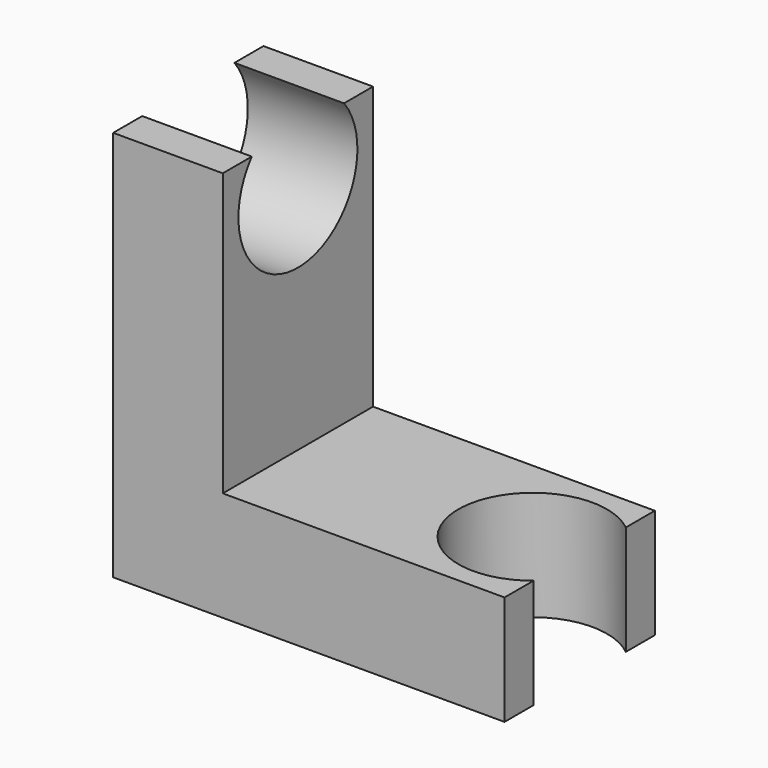
from build123d import *

# Parameters (mm, degrees)
F1_DEPTH = 6
F3_DEPTH = 7.001
F4_R     = 4.75
F5_DEPTH = 25


with BuildPart() as f1:
    # F0 (on Front) → F1 (new body, symmetric)
    with BuildSketch(Plane.XZ):
        Polygon((7, 25), (0, 25), (0, 0), (25, 0), (25, 7), (7, 7), align=None)
    extrude(amount=F1_DEPTH, both=True)

    # F2 (on face) → F3 (cut, through all)
    with BuildSketch(Plane.XY.offset(7)):
        with BuildLine():
            ThreePointArc((25, -3.68273), (26.290251, -2.038688), (26.75, 0))
            ThreePointArc((26.75, 0), (26.290251, 2.038688), (25, 3.68273))
            Line((25, 3.68273), (25, -3.68273))
        make_face()
        with BuildLine():
            Line((25, -3.68273), (25, 3.68273))
            ThreePointArc((25, 3.68273), (17.25, 0), (25, -3.68273))
        make_face()
    extrude(amount=-F3_DEPTH, mode=Mode.SUBTRACT)

    # F4 (on face) → F5 (cut)
    with BuildSketch(Plane.YZ.offset(7)):
        with Locations((0, 22)):
            Circle(F4_R)
    extrude(amount=-F5_DEPTH, mode=Mode.SUBTRACT)


solid = f1.part
